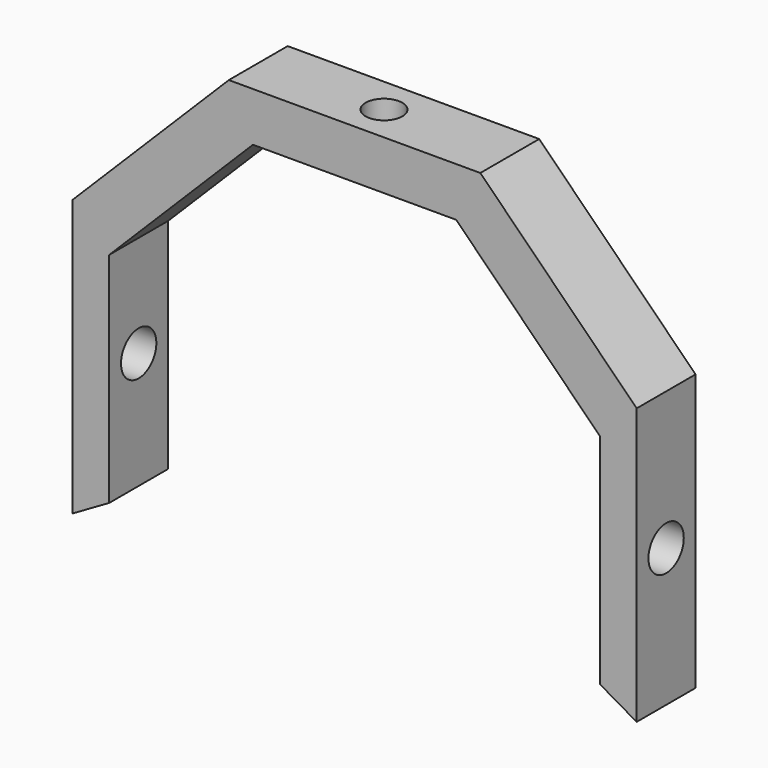
from build123d import *

# Parameters (mm, degrees)
SKETCH139_R  = 1.8
PAD110_DEPTH = 50
SKETCH125_R  = 3
PAD099_DEPTH = 2
SKETCH123_R  = 1.5
PAD097_DEPTH = 50
PAD083_DEPTH = 6


with BuildPart() as sidemountscrewcutout:
    # Sketch139 → Pad110 (new body, symmetric)
    with BuildSketch(Plane(origin=(0, 34, 0), x_dir=(0, 1, 0), z_dir=(1, 0, 0))):
        with Locations((3.25, 0)):
            Circle(SKETCH139_R)
    extrude(amount=PAD110_DEPTH, both=True)


with BuildPart() as countersinkcutout:
    # Sketch125 → Pad099 (new body)
    with BuildSketch(Plane(origin=(0, 40, 20), x_dir=(1, 0, 0), z_dir=(0, 0, 1))):
        with Locations((0, -3)):
            Circle(SKETCH125_R)
    extrude(amount=PAD099_DEPTH)


with BuildPart() as cutout:
    # Sketch123 → Pad097 (new body)
    with BuildSketch(Plane(origin=(0, 40, 0), x_dir=(1, 0, 0), z_dir=(0, 0, 1))):
        with Locations((0, -3)):
            Circle(SKETCH123_R)
    extrude(amount=PAD097_DEPTH)

    # Fusion004020003: union CountersinkCutout
    add(countersinkcutout.part)


with BuildPart() as motorcagesupportrib:
    # Sketch110 → Pad083 (new body)
    with BuildSketch(Plane.XZ.offset(-40)):
        Polygon((-23, -11.252777), (-23, 11.252777), (-10.252777, 24), (10.252777, 24), (23, 11.252777), (23, -11.252777), (20, -9.520726), (20, 8.284271), (8.284271, 20), (-8.284271, 20), (-20, 8.284271), (-20, -9.520726), align=None)
    extrude(amount=PAD083_DEPTH)

    # Cut007019008: cut Cutout
    add(cutout.part, mode=Mode.SUBTRACT)


with BuildPart() as motorcagesupportrib_1:
    # Cut007019008 placement: moved
    add(motorcagesupportrib.part.moved(Location((0, 0.25, 0))))

    # Cut007019012: cut SideMountScrewCutout
    add(sidemountscrewcutout.part, mode=Mode.SUBTRACT)


solid = motorcagesupportrib_1.part
